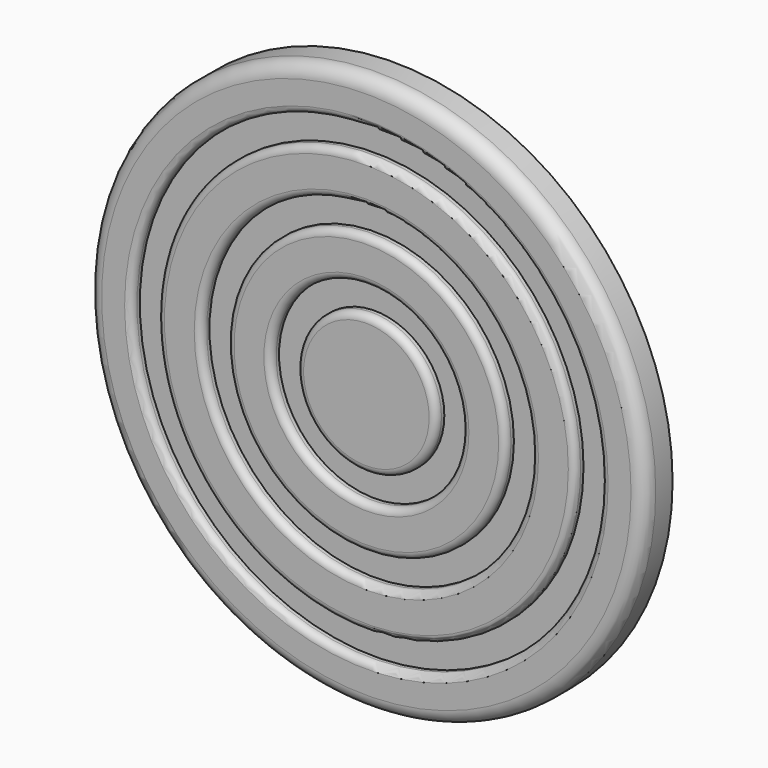
from build123d import *

# Parameters (mm, degrees)
F0_R     = 20.32
F0_R_2   = 17.145
F0_R_3   = 15.24
F0_R_4   = 12.065
F0_R_5   = 10.16
F0_R_6   = 6.985
F0_R_7   = 5.08
F1_DEPTH = 2.54
F2_DEPTH = 1.778
F3_R     = 1
F4_R     = 0.5


with BuildPart() as f1:
    # F0 (on Front) → F1 (new body)
    with BuildSketch(Plane.XZ):
        Circle(F0_R)
        Circle(F0_R_2, mode=Mode.SUBTRACT)
        Circle(F0_R_3)
        Circle(F0_R_4, mode=Mode.SUBTRACT)
        Circle(F0_R_5)
        Circle(F0_R_6, mode=Mode.SUBTRACT)
        Circle(F0_R_7)
    extrude(amount=F1_DEPTH)

    # F3
    f3_edges = [f1.edges().sort_by_distance(p)[0] for p in [
        (-20.32, -2.54, 0),
    ]]
    fillet(f3_edges, radius=F3_R)

    # F4
    f4_edges = [f1.edges().sort_by_distance(p)[0] for p in [
        (-5.08, -2.54, 0),
        (-6.985, -2.54, 0),
        (-10.16, -2.54, 0),
        (-12.065, -2.54, 0),
        (-15.24, -2.54, 0),
        (-17.145, -2.54, 0),
    ]]
    fillet(f4_edges, radius=F4_R)


with BuildPart() as f2:
    # F0 (on Front) → F2 (new body)
    with BuildSketch(Plane.XZ):
        Circle(F0_R_2)
        Circle(F0_R_3, mode=Mode.SUBTRACT)
        Circle(F0_R_4)
        Circle(F0_R_5, mode=Mode.SUBTRACT)
        Circle(F0_R_6)
        Circle(F0_R_7, mode=Mode.SUBTRACT)
    extrude(amount=F2_DEPTH)


solid = Compound([f1.part, f2.part])
